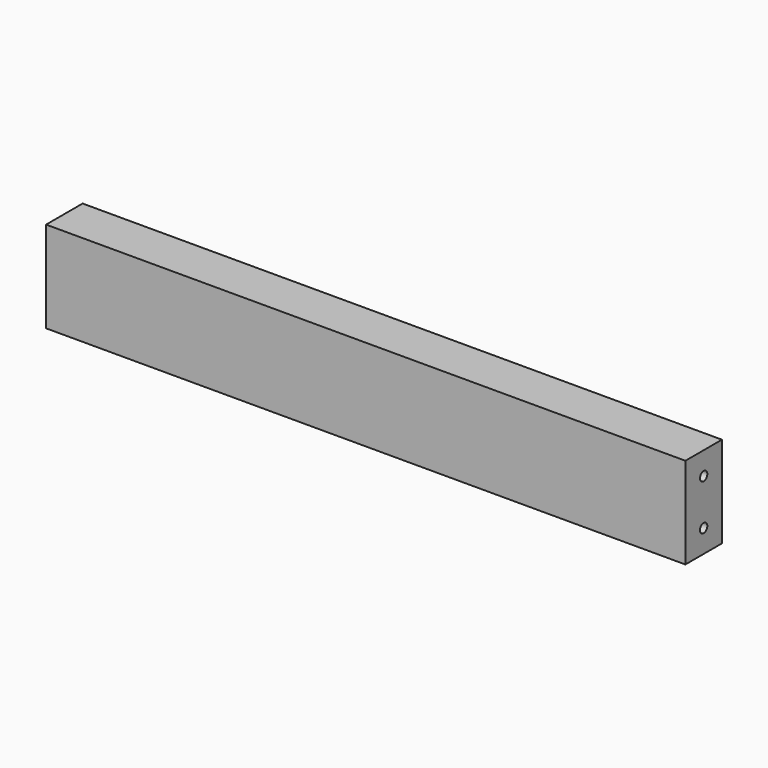
from build123d import *

# Parameters (mm, degrees)
F0_W     = 700
F0_H     = 100
F1_DEPTH = 50
F3_R     = 5
F4_DEPTH = 25
F2_R     = 5
F5_DEPTH = 25


with BuildPart() as f1:
    # F0 (on Front) → F1 (new body)
    with BuildSketch(Plane.XZ):
        Rectangle(F0_W, F0_H)
    extrude(amount=F1_DEPTH)

    # F3 (on face) → F4 (cut)
    with BuildSketch(Plane(origin=(-350, 0, 0), x_dir=(0, -1, 0), z_dir=(-1, 0, 0))):
        with Locations((25, 25)):
            Circle(F3_R)
        with Locations((25, -25)):
            Circle(F3_R)
    extrude(amount=-F4_DEPTH, mode=Mode.SUBTRACT)

    # F2 (on face) → F5 (cut)
    with BuildSketch(Plane.YZ.offset(350)):
        with Locations((-25, 25)):
            Circle(F2_R)
        with Locations((-25, -25)):
            Circle(F2_R)
    extrude(amount=-F5_DEPTH, mode=Mode.SUBTRACT)


solid = f1.part
